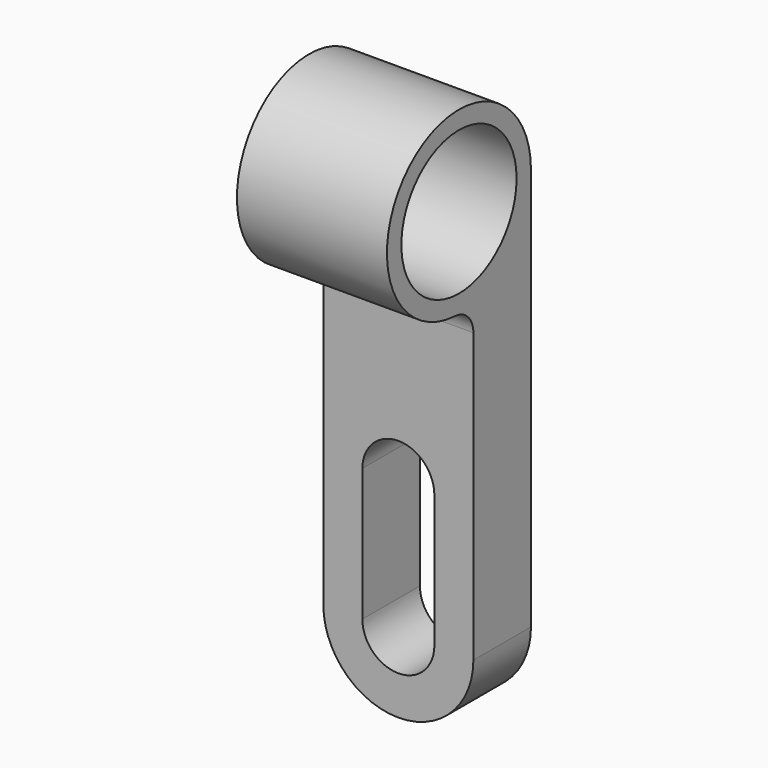
from build123d import *

# Parameters (mm, degrees)
F0_R     = 12
F1_DEPTH = 25
F3_DEPTH = 25


with BuildPart() as f1:
    # F0 (on Right) → F1 (new body)
    with BuildSketch(Plane.YZ):
        with BuildLine():
            Line((15, -53.741885), (15, 25.757949))
            ThreePointArc((15, 25.757949), (-10.323708, 36.640093), (-0.789474, 10.778739))
            ThreePointArc((-0.789474, 10.778739), (1.901905, 9.537272), (3, 6.784283))
            Line((3, 6.784283), (3, -53.741885))
            Line((3, -53.741885), (15, -53.741885))
        make_face()
        with Locations((0, 25.757949)):
            Circle(F0_R, mode=Mode.SUBTRACT)
    extrude(amount=F1_DEPTH)

    # F2 (on face) → F3 (cut)
    with BuildSketch(Plane(origin=(0, 15, 0), x_dir=(-1, 0, 0), z_dir=(0, 1, 0))):
        with BuildLine():
            Line((0, -53.741885), (0, -41.241885))
            ThreePointArc((0, -41.241885), (-3.661165, -50.080719), (-12.5, -53.741885))
            Line((-12.5, -53.741885), (0, -53.741885))
        make_face()
        with BuildLine():
            Line((-25, -53.741885), (-12.5, -53.741885))
            ThreePointArc((-12.5, -53.741885), (-21.338835, -50.080719), (-25, -41.241885))
            Line((-25, -41.241885), (-25, -53.741885))
        make_face()
        with BuildLine():
            Line((-6.5, -41.241885), (-6.5, -19.129273))
            ThreePointArc((-6.5, -19.129273), (-12.5, -13.129273), (-18.5, -19.129273))
            Line((-18.5, -19.129273), (-18.5, -41.241885))
            ThreePointArc((-18.5, -41.241885), (-12.5, -47.241885), (-6.5, -41.241885))
        make_face()
    extrude(amount=-F3_DEPTH, mode=Mode.SUBTRACT)


solid = f1.part
